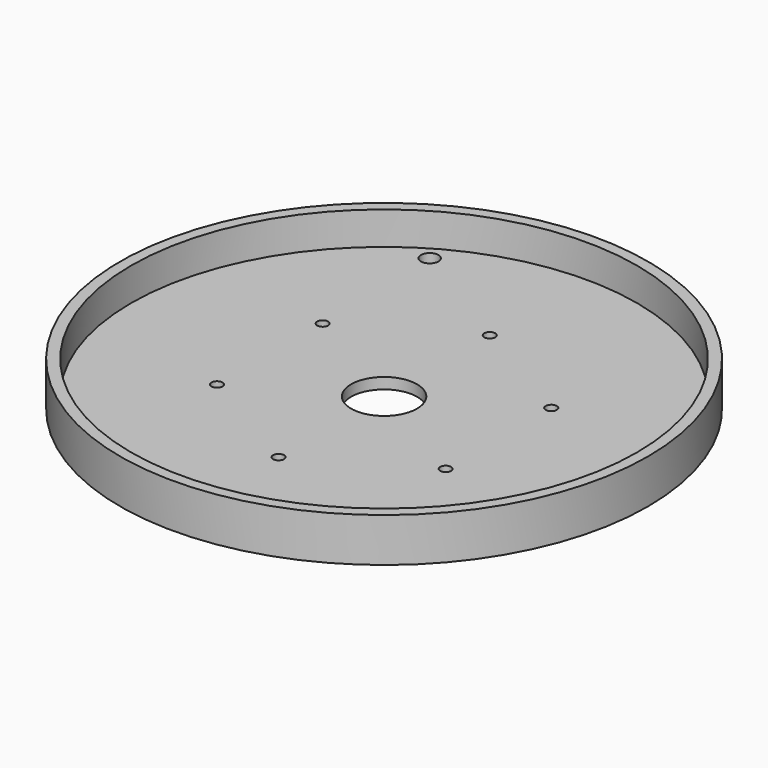
from build123d import *

# Parameters (mm, degrees)
F0_R     = 115
F0_R_2   = 4
F0_R_3   = 2.5
F0_R_4   = 15
F1_DEPTH = 5
F0_R_5   = 120
F2_DEPTH = 20


with BuildPart() as f1:
    # F0 (on Top) → F1 (new body)
    with BuildSketch(Plane.XY):
        Circle(F0_R)
        with Locations((-53.75, -93.097731)):
            Circle(F0_R_2, mode=Mode.SUBTRACT)
        with Locations((-0.093156, -59.838067)):
            Circle(F0_R_3, mode=Mode.SUBTRACT)
        with Locations((-52.054681, -29.838067)):
            Circle(F0_R_3, mode=Mode.SUBTRACT)
        with Locations((51.868368, -29.838067)):
            Circle(F0_R_3, mode=Mode.SUBTRACT)
        with Locations((-52.054681, 30.161933)):
            Circle(F0_R_3, mode=Mode.SUBTRACT)
        with Locations((-0.093156, 60.161933)):
            Circle(F0_R_3, mode=Mode.SUBTRACT)
        with Locations((-53.75, 93.097731)):
            Circle(F0_R_2, mode=Mode.SUBTRACT)
        Circle(F0_R_4, mode=Mode.SUBTRACT)
        with Locations((51.868368, 30.161933)):
            Circle(F0_R_3, mode=Mode.SUBTRACT)
        with Locations((107.5, 0)):
            Circle(F0_R_2, mode=Mode.SUBTRACT)
    extrude(amount=F1_DEPTH)

    # F0 (on Top) → F2 (join)
    with BuildSketch(Plane.XY):
        Circle(F0_R_5)
        Circle(F0_R, mode=Mode.SUBTRACT)
    extrude(amount=F2_DEPTH)


solid = f1.part
